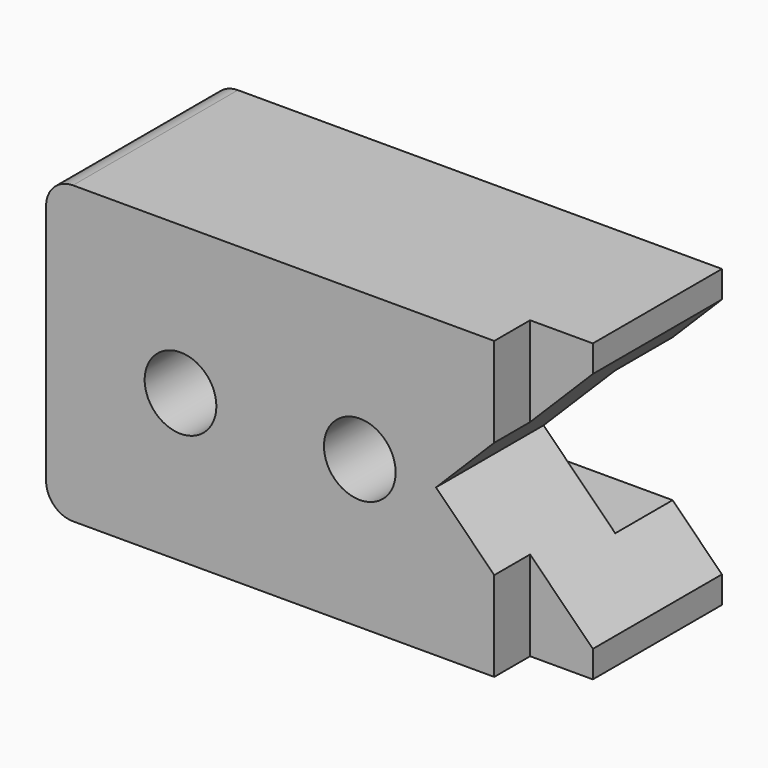
from build123d import *

# Parameters (mm, degrees)
F1_DEPTH = 46
F2_W     = 14
F2_H     = 10
F3_DEPTH = 66.001
F4_W     = 16
F4_H     = 32
F5_DEPTH = 114.001
F6_R     = 8
F7_DEPTH = 25
F8_DEPTH = 46.001
F9_R     = 6


with BuildPart() as f1:
    # F0 (on Front) → F1 (new body)
    with BuildSketch(Plane.XZ):
        Polygon((0, 66), (0, 33), (87, 33), (114, 60), (114, 66), align=None)
        Polygon((0, 33), (0, 0), (114, 0), (114, 6), (87, 33), align=None)
    extrude(amount=F1_DEPTH)

    # F2 (on face) → F3 (cut, through all)
    with BuildSketch(Plane.XY.offset(66)):
        with Locations((107, -41)):
            Rectangle(F2_W, F2_H)
    extrude(amount=-F3_DEPTH, mode=Mode.SUBTRACT)

    # F4 (on face) → F5 (cut, through all)
    with BuildSketch(Plane(origin=(0, 0, 0), x_dir=(0, -1, 0), z_dir=(-1, 0, 0))):
        with Locations((8, 33)):
            Rectangle(F4_W, F4_H)
    extrude(amount=-F5_DEPTH, mode=Mode.SUBTRACT)

    # F6 (on Front) → F7 (join)
    with BuildSketch(Plane.XZ):
        with Locations((30, 33)):
            Circle(F6_R)
        with Locations((70, 33)):
            Circle(F6_R)
    extrude(amount=F7_DEPTH)

    # F6 (on Front) → F8 (cut, through all)
    with BuildSketch(Plane.XZ):
        with Locations((30, 33)):
            Circle(F6_R)
        with Locations((70, 33)):
            Circle(F6_R)
    extrude(amount=F8_DEPTH, mode=Mode.SUBTRACT)

    # F9
    f9_edges = [f1.edges().sort_by_distance(p)[0] for p in [
        (0, -23, 66),
        (0, -23, 0),
    ]]
    fillet(f9_edges, radius=F9_R)


solid = f1.part
